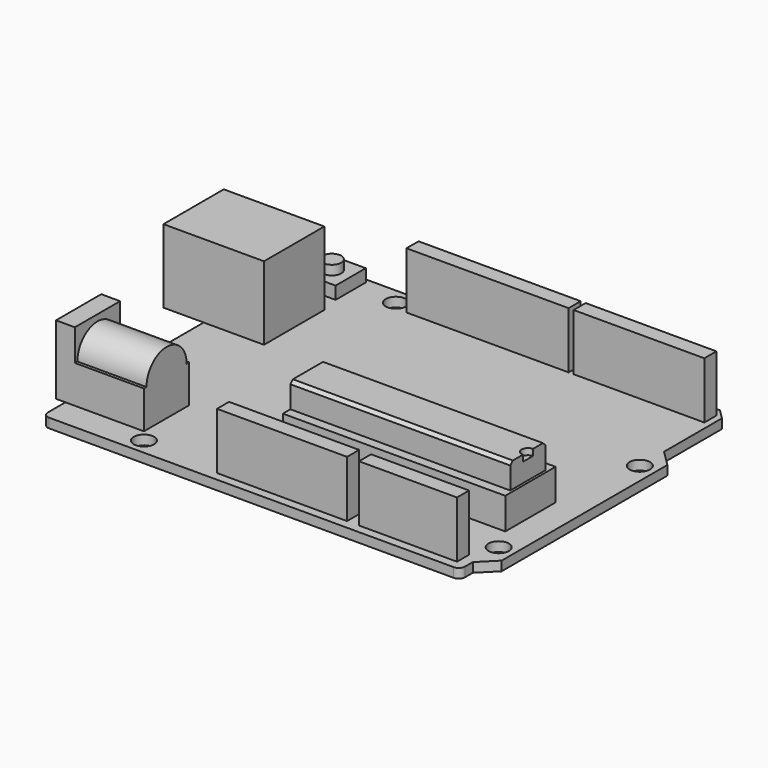
from build123d import *

# Parameters (mm, degrees)
SKETCH_R                   = 1.62
EXTRUDE_SKETCH_DEPTH       = 1.5
RECTANGLE004_W             = 20.8
RECTANGLE004_H             = 2.4
EXTRUDE_RECTANGLE004_DEPTH = 9
EXTRUDE_SKETCH002_DEPTH    = 1
SKETCH001_W                = 35
SKETCH001_H                = 7
EXTRUDE_SKETCH001_DEPTH    = 3
CHAMFER_SIZE               = 0.5
RECTANGLE006_W             = 35.4
RECTANGLE006_H             = 10
EXTRUDE_RECTANGLE006_DEPTH = 5
RECTANGLE001_W             = 15.6
RECTANGLE001_H             = 2.4
EXTRUDE_RECTANGLE001_DEPTH = 9
RECTANGLE_W                = 20.7
RECTANGLE_H                = 2.4
EXTRUDE_RECTANGLE_DEPTH    = 9
RECTANGLE009_W             = 9
RECTANGLE009_H             = 11
EXTRUDE_RECTANGLE009_DEPTH = 3
EXTRUDE_SKETCH005_DEPTH    = 11
RECTANGLE008_W             = 16
RECTANGLE008_H             = 12
EXTRUDE_RECTANGLE008_DEPTH = 11.7
SKETCH003_W                = 6
SKETCH003_H                = 6
EXTRUDE_SKETCH003_DEPTH    = 2
SKETCH004_R                = 1.5
EXTRUDE_SKETCH004_DEPTH    = 1.5
RECTANGLE003_W             = 25.8
RECTANGLE003_H             = 2.4
EXTRUDE_RECTANGLE003_DEPTH = 9


with BuildPart() as sketch_extrude:
    # Sketch → Extrude_Sketch (new body)
    with BuildSketch(Plane.XY):
        with BuildLine():
            Line((1, 0), (65.4, 0))
            ThreePointArc((65.4, 0), (66.107107, 0.292893), (66.4, 1))
            Line((66.4, 1), (66.4, 2.55))
            Line((68.95, 5.1), (66.4, 2.55))
            Line((68.95, 38.05), (68.95, 5.1))
            Line((66.4, 40.6), (68.95, 38.05))
            Line((66.4, 40.6), (66.4, 52.1))
            Line((64.85, 53.65), (66.4, 52.1))
            Line((64.85, 53.65), (1, 53.65))
            ThreePointArc((1, 53.65), (0.292893, 53.357107), (0, 52.65))
            Line((0, 52.65), (0, 1))
            ThreePointArc((0, 1), (0.292893, 0.292893), (1, 0))
        make_face()
        with Locations((14.05247, 2.556984)):
            Circle(SKETCH_R, mode=Mode.SUBTRACT)
        with Locations((15.334135, 51.082933)):
            Circle(SKETCH_R, mode=Mode.SUBTRACT)
        with Locations((66.409951, 35.749834)):
            Circle(SKETCH_R, mode=Mode.SUBTRACT)
        with Locations((66.413926, 7.668398)):
            Circle(SKETCH_R, mode=Mode.SUBTRACT)
    extrude(amount=EXTRUDE_SKETCH_DEPTH)


with BuildPart() as rectangle004_extrude:
    # Rectangle004 (on Extrude_Sketch) → Extrude_Rectangle004 (new body)
    with BuildSketch(Plane(origin=(44.6, 49.85, 1.5), x_dir=(1, 0, 0), z_dir=(0, 0, 1))):
        with Locations((10.4, 1.2)):
            Rectangle(RECTANGLE004_W, RECTANGLE004_H)
    extrude(amount=EXTRUDE_RECTANGLE004_DEPTH)


with BuildPart() as sketch002_extrude:
    # Sketch002 (on Face6 of Extrude_Sketch001) → Extrude_Sketch002 (new body)
    with BuildSketch(Plane.XY.offset(9.5)):
        with BuildLine():
            Line((29, 13), (64, 13))
            Line((64, 13), (64, 15.5))
            ThreePointArc((64, 17.5), (63, 16.5), (64, 15.5))
            Line((64, 17.5), (64, 20))
            Line((64, 20), (29, 20))
            Line((29, 20), (29, 13))
        make_face()
    extrude(amount=EXTRUDE_SKETCH002_DEPTH)


with BuildPart() as chamfer_body:
    # Sketch001 (on Face6 of Extrude_Rectangle006) → Extrude_Sketch001 (new body)
    with BuildSketch(Plane.XY.offset(6.5)):
        with Locations((46.5, 16.5)):
            Rectangle(SKETCH001_W, SKETCH001_H)
    extrude(amount=EXTRUDE_SKETCH001_DEPTH)

    # Fusion: union Sketch002_Extrude
    add(sketch002_extrude.part)

    # Chamfer
    chamfer_edges = [chamfer_body.edges().sort_by_distance(p)[0] for p in [
        (46.5, 13, 10.5),
        (46.5, 20, 10.5),
    ]]
    chamfer(chamfer_edges, length=CHAMFER_SIZE)


with BuildPart() as rectangle006_extrude:
    # Rectangle006 (on Extrude_Sketch) → Extrude_Rectangle006 (new body)
    with BuildSketch(Plane(origin=(29, 11.5, 1.5), x_dir=(1, 0, 0), z_dir=(0, 0, 1))):
        with Locations((17.7, 5)):
            Rectangle(RECTANGLE006_W, RECTANGLE006_H)
    extrude(amount=EXTRUDE_RECTANGLE006_DEPTH)


with BuildPart() as rectangle001_extrude:
    # Rectangle001 (on Extrude_Sketch) → Extrude_Rectangle001 (new body)
    with BuildSketch(Plane(origin=(49.2, 1.4, 1.5), x_dir=(1, 0, 0), z_dir=(0, 0, 1))):
        with Locations((7.8, 1.2)):
            Rectangle(RECTANGLE001_W, RECTANGLE001_H)
    extrude(amount=EXTRUDE_RECTANGLE001_DEPTH)


with BuildPart() as rectangle_extrude:
    # Rectangle (on Extrude_Sketch) → Extrude_Rectangle (new body)
    with BuildSketch(Plane(origin=(26.6, 1.4, 1.5), x_dir=(1, 0, 0), z_dir=(0, 0, 1))):
        with Locations((10.35, 1.2)):
            Rectangle(RECTANGLE_W, RECTANGLE_H)
    extrude(amount=EXTRUDE_RECTANGLE_DEPTH)


with BuildPart() as rectangle009_extrude:
    # Rectangle009 (on Extrude_Sketch) → Extrude_Rectangle009 (new body)
    with BuildSketch(Plane(origin=(-1.5, 13.5, 1.5), x_dir=(0, -1, 0), z_dir=(-1, 0, 0))):
        with Locations((4.5, 5.5)):
            Rectangle(RECTANGLE009_W, RECTANGLE009_H)
    extrude(amount=-EXTRUDE_RECTANGLE009_DEPTH)


with BuildPart() as fusion001:
    # Sketch005 (on Face6 of Extrude_Rectangle009) → Extrude_Sketch005 (new body)
    with BuildSketch(Plane.YZ.offset(1.5)):
        with BuildLine():
            Line((4.5, 1.5), (13.5, 1.5))
            Line((13.5, 1.5), (13.5, 7.5))
            Line((13.5, 7.5), (13, 7.5))
            ThreePointArc((13, 7.5), (9, 11.5), (5, 7.5))
            Line((5, 7.5), (4.5, 7.5))
            Line((4.5, 7.5), (4.5, 1.5))
        make_face()
    extrude(amount=EXTRUDE_SKETCH005_DEPTH)

    # Fusion001: union Rectangle009_Extrude
    add(rectangle009_extrude.part)


with BuildPart() as rectangle008_extrude:
    # Rectangle008 → Extrude_Rectangle008 (new body)
    with BuildSketch(Plane(origin=(-6.4, 32, 1.5), x_dir=(1, 0, 0), z_dir=(0, 0, 1))):
        with Locations((8, 6)):
            Rectangle(RECTANGLE008_W, RECTANGLE008_H)
    extrude(amount=EXTRUDE_RECTANGLE008_DEPTH)


with BuildPart() as sketch003_extrude:
    # Sketch003 (on Face18 of Extrude_Sketch) → Extrude_Sketch003 (new body)
    with BuildSketch(Plane.XY.offset(1.5)):
        with Locations((6, 50)):
            Rectangle(SKETCH003_W, SKETCH003_H)
    extrude(amount=EXTRUDE_SKETCH003_DEPTH)


with BuildPart() as sketch004_extrude:
    # Sketch004 (on Face6 of Extrude_Sketch003) → Extrude_Sketch004 (new body)
    with BuildSketch(Plane.XY.offset(3.5)):
        with Locations((6, 50)):
            Circle(SKETCH004_R)
    extrude(amount=EXTRUDE_SKETCH004_DEPTH)


with BuildPart() as arduino:
    # Rectangle003 (on Extrude_Sketch) → Extrude_Rectangle003 (new body)
    with BuildSketch(Plane(origin=(18, 49.85, 1.5), x_dir=(1, 0, 0), z_dir=(0, 0, 1))):
        with Locations((12.9, 1.2)):
            Rectangle(RECTANGLE003_W, RECTANGLE003_H)
    extrude(amount=EXTRUDE_RECTANGLE003_DEPTH)

    # Fusion002: union Rectangle004_Extrude, Chamfer body, Rectangle006_Extrude, Rectangle001_Extrude, Rectangle_Extrude, Fusion001, Rectangle008_Extrude, Sketch003_Extrude, Sketch004_Extrude
    add(rectangle004_extrude.part)
    add(chamfer_body.part)
    add(rectangle006_extrude.part)
    add(rectangle001_extrude.part)
    add(rectangle_extrude.part)
    add(fusion001.part)
    add(rectangle008_extrude.part)
    add(sketch003_extrude.part)
    add(sketch004_extrude.part)

    # Fusion003: union Sketch_Extrude
    add(sketch_extrude.part)


with BuildPart() as arduino_1:
    # Fusion003 placement: moved
    add(arduino.part.moved(Location((1, 1, 3))))


solid = arduino_1.part
